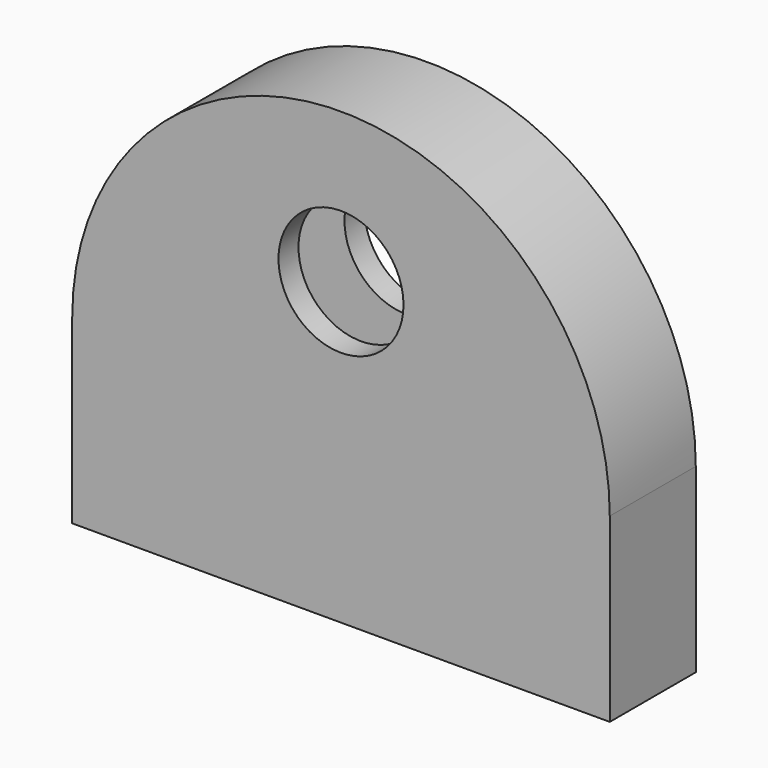
from build123d import *

# Parameters (mm, degrees)
F0_W     = 21.5
F0_H     = 7.25
F1_DEPTH = 1
F3_DEPTH = 2.3
F5_DEPTH = 1
F6_R     = 2.5
F7_DEPTH = 4.301


with BuildPart() as f1:
    # F0 (on Front) → F1 (new body)
    with BuildSketch(Plane.XZ):
        with Locations((10.75, 3.625)):
            Rectangle(F0_W, F0_H)
        with BuildLine():
            ThreePointArc((21.5, 7.25), (10.75, 18), (0, 7.25))
            Line((0, 7.25), (21.5, 7.25))
        make_face()
    extrude(amount=F1_DEPTH)

    # F2 (on face) → F3 (join)
    with BuildSketch(Plane.XZ.offset(1)):
        with BuildLine():
            Line((20.5, 7.25), (20.5, 0))
            Line((20.5, 0), (21.5, 0))
            Line((21.5, 0), (21.5, 7.25))
            ThreePointArc((21.5, 7.25), (10.75, 18), (0, 7.25))
            Line((0, 7.25), (0, 0))
            Line((0, 0), (1, 0))
            Line((1, 0), (1, 7.25))
            ThreePointArc((1, 7.25), (10.75, 17), (20.5, 7.25))
        make_face()
    extrude(amount=F3_DEPTH)

    # F4 (on face) → F5 (join)
    with BuildSketch(Plane.XZ.offset(3.3)):
        with BuildLine():
            Line((0, 7.25), (0, 0))
            Line((0, 0), (21.5, 0))
            Line((21.5, 0), (21.5, 7.25))
            ThreePointArc((21.5, 7.25), (10.75, 18), (0, 7.25))
        make_face()
    extrude(amount=F5_DEPTH)

    # F6 (on face) → F7 (cut, through all)
    with BuildSketch(Plane.XZ.offset(4.3)):
        with Locations((10.75, 12)):
            Circle(F6_R)
    extrude(amount=-F7_DEPTH, mode=Mode.SUBTRACT)


solid = f1.part
